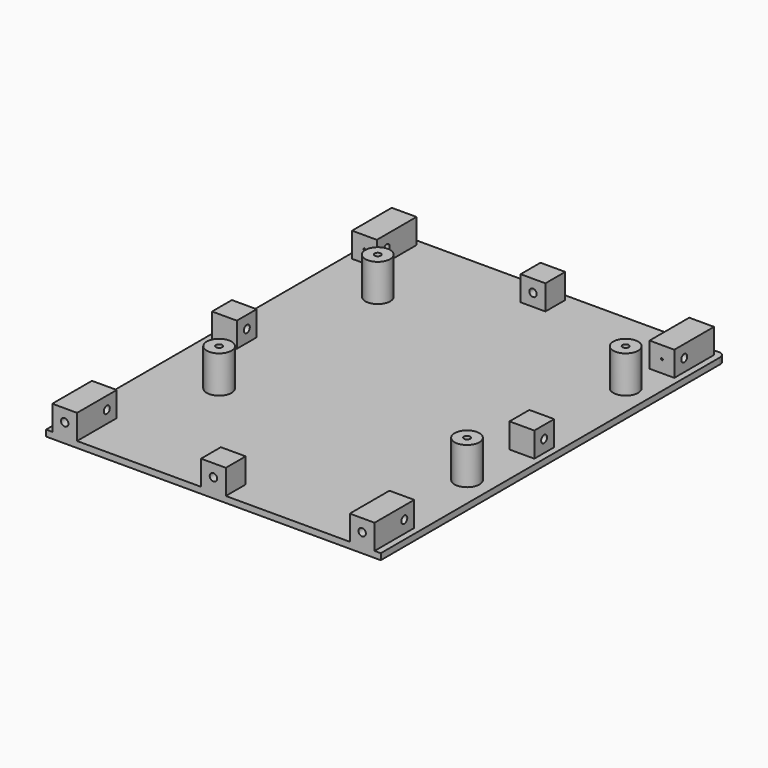
from build123d import *

# Parameters (mm, degrees)
F1_W      = 135
F1_H      = 173.65
F2_DEPTH  = 1.25
F3_W      = 10
F3_H      = 10
F3_H_2    = 20
F4_DEPTH  = 11.25
F5_R      = 5
F5_R_2    = 1.25
F6_DEPTH  = 16.25
F7_R      = 2.5
F16_D     = 3
F16_DEPTH = 25
F16_TIP   = 0.9012909285
F17_D     = 3
F17_DEPTH = 25
F17_TIP   = 0.9012909285
F18_D     = 3
F18_DEPTH = 25
F18_TIP   = 0.9012909285
F19_D     = 3
F19_DEPTH = 25
F19_TIP   = 0.9012909285


with BuildPart() as f2:
    # F1 (on offset) → F2 (new body, symmetric)
    with BuildSketch(Plane.XY.offset(-7.5)):
        with Locations((-1.75834e-05, 0.0049936295)):
            Rectangle(F1_W, F1_H)
    extrude(amount=F2_DEPTH, both=True)

    # F3 (on offset) → F4 (join)
    with BuildSketch(Plane.XY.offset(-7.5)):
        with Locations((-60.0000175834, -1.2700063705)):
            Rectangle(F3_W, F3_H)
        with Locations((-1.75834e-05, 79.3299936295)):
            Rectangle(F3_W, F3_H)
        with Locations((-60.0000175834, 74.3299936295)):
            Rectangle(F3_W, F3_H_2)
        with Locations((-60.0000175834, -76.8200063705)):
            Rectangle(F3_W, F3_H_2)
        with Locations((-1.75834e-05, -81.8200063705)):
            Rectangle(F3_W, F3_H)
        with Locations((60.0000175834, -1.2700063705)):
            Rectangle(F3_W, F3_H)
        with Locations((60.0000175834, 74.3299936295)):
            Rectangle(F3_W, F3_H_2)
        with Locations((60.0000175834, -76.8200063705)):
            Rectangle(F3_W, F3_H_2)
    extrude(amount=F4_DEPTH)

    # F5 (on offset) → F6 (join)
    with BuildSketch(Plane.XY.offset(-7.5)):
        with Locations((-42.5000175834, 49.1799936295)):
            Circle(F5_R)
        with Locations((-42.5000175834, 49.1799936295)):
            Circle(F5_R_2, mode=Mode.SUBTRACT)
        with Locations((-42.5000175834, -30.8200063705)):
            Circle(F5_R)
        with Locations((-42.5000175834, -30.8200063705)):
            Circle(F5_R_2, mode=Mode.SUBTRACT)
        with Locations((57.4999824166, -30.8200063705)):
            Circle(F5_R)
        with Locations((57.4999824166, -30.8200063705)):
            Circle(F5_R_2, mode=Mode.SUBTRACT)
        with Locations((57.4999824166, 49.1799936295)):
            Circle(F5_R)
        with Locations((57.4999824166, 49.1799936295)):
            Circle(F5_R_2, mode=Mode.SUBTRACT)
    extrude(amount=F6_DEPTH)

    # F7
    f7_edges = [f2.edges().sort_by_distance(p)[0] for p in [
        (-67.500018, 86.829994, -7.5),
        (67.499982, 86.829994, -7.5),
    ]]
    fillet(f7_edges, radius=F7_R)

    # F16
    with Locations(Plane.XZ.offset(88)):
        with Locations((-60.0000175834, -1.25), (0, -1.25), (59.9999824166, -1.25)):
            Hole(F16_D / 2, depth=F16_DEPTH)
            with Locations((0, 0, -(F16_DEPTH + F16_TIP / 2))):  # 118° drill point
                Cone(0, F16_D / 2, F16_TIP, mode=Mode.SUBTRACT)

    # F17
    with Locations(Plane.YZ.offset(70)):
        with Locations((-71.8200063705, -1.25), (-1.3229202013, -1.25), (69.3299936295, -1.25)):
            Hole(F17_D / 2, depth=F17_DEPTH)
            with Locations((0, 0, -(F17_DEPTH + F17_TIP / 2))):  # 118° drill point
                Cone(0, F17_D / 2, F17_TIP, mode=Mode.SUBTRACT)

    # F18
    with Locations(Plane(origin=(0, 90, 0), x_dir=(1, 0, 0), z_dir=(0, 1, 0))):
        with Locations((59.9999824166, 1.25), (0, 1.25), (-60.0000175834, 1.25)):
            Hole(F18_D / 2, depth=F18_DEPTH)
            with Locations((0, 0, -(F18_DEPTH + F18_TIP / 2))):  # 118° drill point
                Cone(0, F18_D / 2, F18_TIP, mode=Mode.SUBTRACT)

    # F19
    with Locations(Plane(origin=(-70.5, 0, 0), x_dir=(0, 1, 0), z_dir=(-1, 0, 0))):
        with Locations((69.3299936295, 1.30720163), (-1.2326835422, 1.25), (-71.8200063705, 1.25)):
            Hole(F19_D / 2, depth=F19_DEPTH)
            with Locations((0, 0, -(F19_DEPTH + F19_TIP / 2))):  # 118° drill point
                Cone(0, F19_D / 2, F19_TIP, mode=Mode.SUBTRACT)


solid = f2.part
